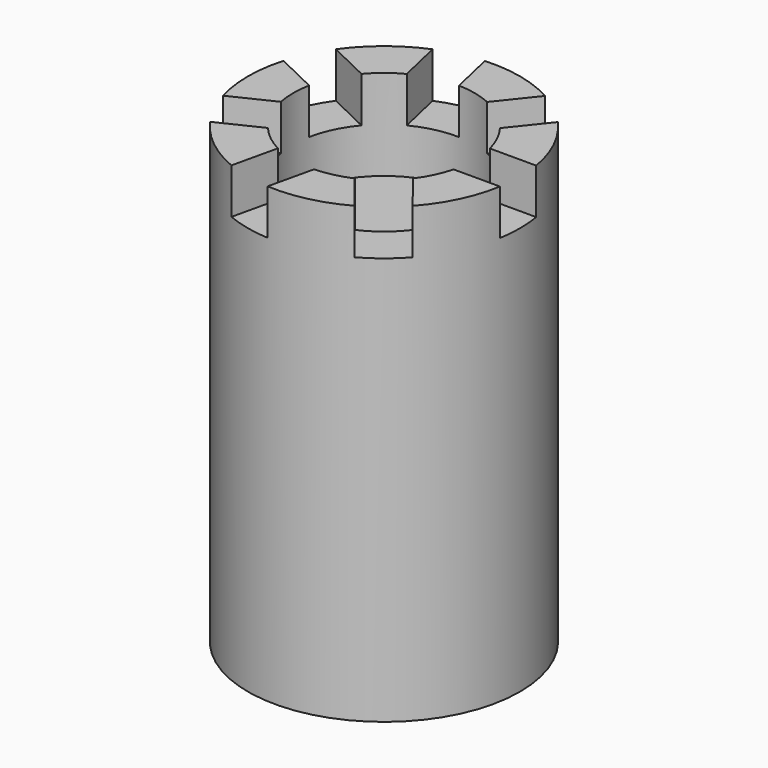
from build123d import *

# Parameters (mm, degrees)
BOX_W             = 20
BOX_H             = 10
BOX_DEPTH         = 10
ARRAY_COUNT       = 7
CYLINDER001_R     = 20
CYLINDER001_DEPTH = 20
CYLINDER_R        = 30
CYLINDER_DEPTH    = 100


with BuildPart() as array:
    # Box → Box (new body)
    with BuildSketch(Plane(origin=(18, -5, 90), x_dir=(1, 0, 0), z_dir=(0, 0, 1))):
        with Locations((10, 5)):
            Rectangle(BOX_W, BOX_H)
    extrude(amount=BOX_DEPTH)

    # Array: Array ×7 about axis
    array_axis = Axis((0, 0, 0), (0, 0, 1))


with BuildPart() as array_1:
    add(array.part)
    for i in range(1, ARRAY_COUNT):
        add(array.part.rotate(array_axis, i * 360 / ARRAY_COUNT))


with BuildPart() as cylinder001:
    # Cylinder001 → Cylinder001 (new body)
    with BuildSketch(Plane.XY.offset(80)):
        Circle(CYLINDER001_R)
    extrude(amount=CYLINDER001_DEPTH)


with BuildPart() as cut001:
    # Cylinder → Cylinder (new body)
    with BuildSketch(Plane.XY):
        Circle(CYLINDER_R)
    extrude(amount=CYLINDER_DEPTH)

    # Cut: cut Cylinder001
    add(cylinder001.part, mode=Mode.SUBTRACT)

    # Cut001: cut Array
    add(array_1.part, mode=Mode.SUBTRACT)


solid = cut001.part
